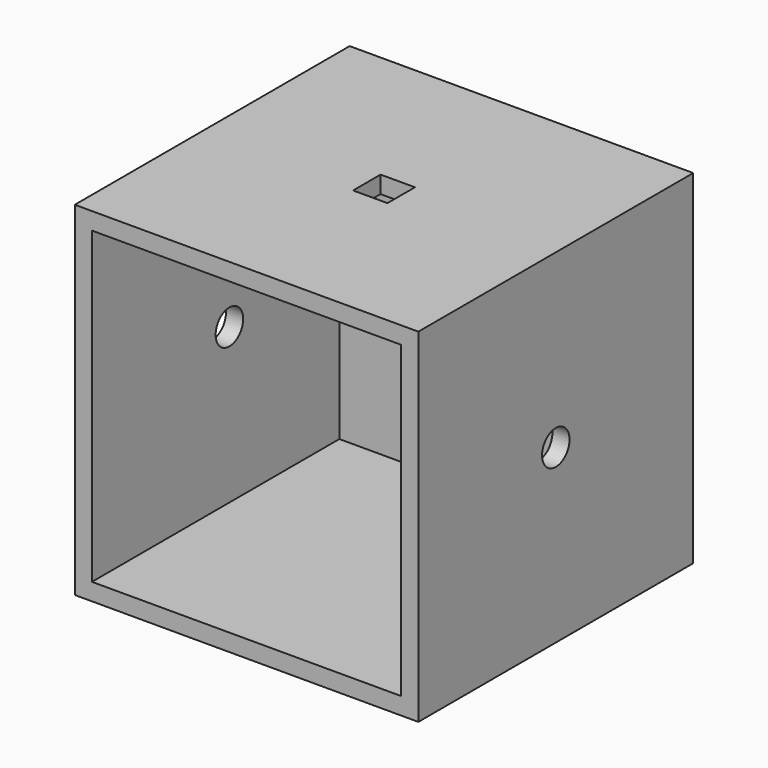
from build123d import *

# Parameters (mm, degrees)
F0_W          = 50
F0_H          = 50
F1_DEPTH      = 25
F1_DEPTH_BACK = 25
F2_W          = 45
F2_H          = 45
F3_DEPTH      = 45
F4_W          = 5
F4_H          = 5
F5_DEPTH      = 5
F6_R          = 2.5
F7_DEPTH      = 50
F7_DEPTH_BACK = 25


with BuildPart() as f1:
    # F0 (on Top) → F1 (new body, two sides)
    with BuildSketch(Plane.XY) as f1_sk:
        Rectangle(F0_W, F0_H)
        Rectangle(F0_W, F0_H)
    extrude(amount=F1_DEPTH)
    extrude(f1_sk.sketch, amount=-F1_DEPTH_BACK)

    # F2 (on face) → F3 (cut)
    with BuildSketch(Plane.XZ.offset(25)):
        Rectangle(F2_W, F2_H)
    extrude(amount=-F3_DEPTH, mode=Mode.SUBTRACT)

    # F4 (on face) → F5 (cut)
    with BuildSketch(Plane.XY.offset(25)):
        Rectangle(F4_W, F4_H)
    extrude(amount=-F5_DEPTH, mode=Mode.SUBTRACT)

    # F6 (on Right) → F7 (cut, two sides)
    with BuildSketch(Plane.YZ) as f7_sk:
        Circle(F6_R)
    extrude(amount=-F7_DEPTH, mode=Mode.SUBTRACT)
    extrude(f7_sk.sketch, amount=F7_DEPTH_BACK, mode=Mode.SUBTRACT)


solid = f1.part
